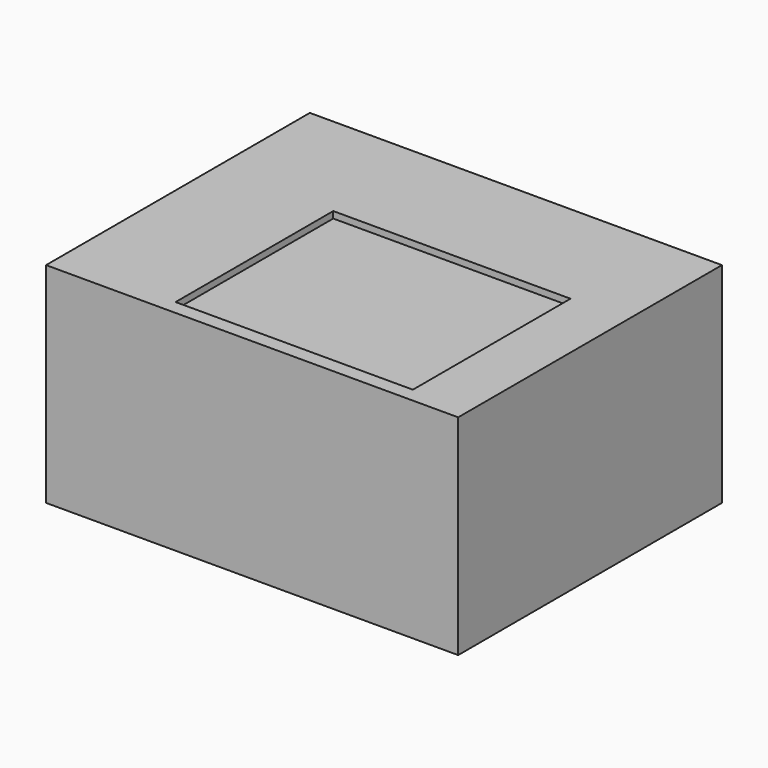
from build123d import *

# Parameters (mm, degrees)
F0_W      = 125
F0_H      = 100
F1_DEPTH  = 63.5
F3_D      = 3.7973
F3_DEPTH  = 10
F3_TIP    = 1.1408240143
F2_W      = 30.6147579104
F2_H      = 25.0281281769
F4_DEPTH  = 3
F5_R      = 2
F6_W      = 71.9727240503
F6_H      = 59.7681310028
F7_DEPTH  = 2
F9_DEPTH  = 5
F10_DEPTH = 5


with BuildPart() as f1:
    # F0 (on Top) → F1 (new body)
    with BuildSketch(Plane.XY):
        Rectangle(F0_W, F0_H)
    extrude(amount=F1_DEPTH)

    # F3
    with Locations(Plane(origin=(0, 50, 0), x_dir=(-1, 0, 0), z_dir=(0, 1, 0))):
        with Locations((-56.5, 32.5), (56.5, 57.5), (56.5, 6)):
            Hole(F3_D / 2, depth=F3_DEPTH)
            with Locations((0, 0, -(F3_DEPTH + F3_TIP / 2))):  # 118° drill point
                Cone(0, F3_D / 2, F3_TIP, mode=Mode.SUBTRACT)

    # F2 (on face) → F4 (join)
    with BuildSketch(Plane(origin=(0, 50, 0), x_dir=(-1, 0, 0), z_dir=(0, 1, 0))):
        with Locations((-36.4209739491, 27.976481244)):
            Rectangle(F2_W, F2_H)
    extrude(amount=F4_DEPTH)

    # F5
    f5_edges = [f1.edges().sort_by_distance(p)[0] for p in [
        (36.420974, 53, 40.490545),
        (51.728353, 53, 27.976481),
        (36.420974, 53, 15.462417),
        (21.113595, 53, 27.976481),
        (21.113595, 51.5, 40.490545),
        (21.113595, 51.5, 15.462417),
        (51.728353, 51.5, 40.490545),
        (51.728353, 51.5, 15.462417),
    ]]
    fillet(f5_edges, radius=F5_R)

    # F6 (on face) → F7 (cut)
    with BuildSketch(Plane.XY.offset(63.5)):
        with Locations((9.2756617814, -15.7460393384)):
            Rectangle(F6_W, F6_H)
    extrude(amount=-F7_DEPTH, mode=Mode.SUBTRACT)

    # F8 (on face) → F9 (cut)
    with BuildSketch(Plane(origin=(0, 50, 0), x_dir=(-1, 0, 0), z_dir=(0, 1, 0))):
        with BuildLine():
            Line((-7.6500625238, 55.638247937), (-9.9858876914, 55.638247937))
            ThreePointArc((-9.9858876914, 55.638247937), (-11.0465478632, 55.1989081087), (-11.4858876914, 54.138247937))
            Line((-11.4858876914, 54.138247937), (-11.4858876914, 7.0822326578))
            ThreePointArc((-11.4858876914, 7.0822326578), (-11.0465478632, 6.021572486), (-9.9858876914, 5.5822326578))
            Line((-9.9858876914, 5.5822326578), (-7.6500625238, 5.5822326578))
            ThreePointArc((-7.6500625238, 5.5822326578), (-6.589402352, 6.021572486), (-6.1500625238, 7.0822326578))
            Line((-6.1500625238, 7.0822326578), (-6.1500625238, 54.138247937))
            ThreePointArc((-6.1500625238, 54.138247937), (-6.589402352, 55.1989081087), (-7.6500625238, 55.638247937))
        make_face()
        with BuildLine():
            Line((2.3499374762, 55.638247937), (0.0141123086, 55.638247937))
            ThreePointArc((0.0141123086, 55.638247937), (-1.0465478632, 55.1989081087), (-1.4858876914, 54.138247937))
            Line((-1.4858876914, 54.138247937), (-1.4858876914, 7.0822326578))
            ThreePointArc((-1.4858876914, 7.0822326578), (-1.0465478632, 6.021572486), (0.0141123086, 5.5822326578))
            Line((0.0141123086, 5.5822326578), (2.3499374762, 5.5822326578))
            ThreePointArc((2.3499374762, 5.5822326578), (3.410597648, 6.021572486), (3.8499374762, 7.0822326578))
            Line((3.8499374762, 7.0822326578), (3.8499374762, 54.138247937))
            ThreePointArc((3.8499374762, 54.138247937), (3.410597648, 55.1989081087), (2.3499374762, 55.638247937))
        make_face()
        with BuildLine():
            Line((12.3499374762, 55.638247937), (10.0141123086, 55.638247937))
            ThreePointArc((10.0141123086, 55.638247937), (8.9534521368, 55.1989081087), (8.5141123086, 54.138247937))
            Line((8.5141123086, 54.138247937), (8.5141123086, 7.0822326578))
            ThreePointArc((8.5141123086, 7.0822326578), (8.9534521368, 6.021572486), (10.0141123086, 5.5822326578))
            Line((10.0141123086, 5.5822326578), (12.3499374762, 5.5822326578))
            ThreePointArc((12.3499374762, 5.5822326578), (13.410597648, 6.021572486), (13.8499374762, 7.0822326578))
            Line((13.8499374762, 7.0822326578), (13.8499374762, 54.138247937))
            ThreePointArc((13.8499374762, 54.138247937), (13.410597648, 55.1989081087), (12.3499374762, 55.638247937))
        make_face()
        with BuildLine():
            Line((22.3499374762, 55.638247937), (20.0141123086, 55.638247937))
            ThreePointArc((20.0141123086, 55.638247937), (18.9534521368, 55.1989081087), (18.5141123086, 54.138247937))
            Line((18.5141123086, 54.138247937), (18.5141123086, 7.0822326578))
            ThreePointArc((18.5141123086, 7.0822326578), (18.9534521368, 6.021572486), (20.0141123086, 5.5822326578))
            Line((20.0141123086, 5.5822326578), (22.3499374762, 5.5822326578))
            ThreePointArc((22.3499374762, 5.5822326578), (23.410597648, 6.021572486), (23.8499374762, 7.0822326578))
            Line((23.8499374762, 7.0822326578), (23.8499374762, 54.138247937))
            ThreePointArc((23.8499374762, 54.138247937), (23.410597648, 55.1989081087), (22.3499374762, 55.638247937))
        make_face()
        with BuildLine():
            Line((32.3499374762, 55.638247937), (30.0141123086, 55.638247937))
            ThreePointArc((30.0141123086, 55.638247937), (28.9534521368, 55.1989081087), (28.5141123086, 54.138247937))
            Line((28.5141123086, 54.138247937), (28.5141123086, 7.0822326578))
            ThreePointArc((28.5141123086, 7.0822326578), (28.9534521368, 6.021572486), (30.0141123086, 5.5822326578))
            Line((30.0141123086, 5.5822326578), (32.3499374762, 5.5822326578))
            ThreePointArc((32.3499374762, 5.5822326578), (33.410597648, 6.021572486), (33.8499374762, 7.0822326578))
            Line((33.8499374762, 7.0822326578), (33.8499374762, 54.138247937))
            ThreePointArc((33.8499374762, 54.138247937), (33.410597648, 55.1989081087), (32.3499374762, 55.638247937))
        make_face()
        with BuildLine():
            Line((42.3499374762, 55.638247937), (40.0141123086, 55.638247937))
            ThreePointArc((40.0141123086, 55.638247937), (38.9534521368, 55.1989081087), (38.5141123086, 54.138247937))
            Line((38.5141123086, 54.138247937), (38.5141123086, 7.0822326578))
            ThreePointArc((38.5141123086, 7.0822326578), (38.9534521368, 6.021572486), (40.0141123086, 5.5822326578))
            Line((40.0141123086, 5.5822326578), (42.3499374762, 5.5822326578))
            ThreePointArc((42.3499374762, 5.5822326578), (43.410597648, 6.021572486), (43.8499374762, 7.0822326578))
            Line((43.8499374762, 7.0822326578), (43.8499374762, 54.138247937))
            ThreePointArc((43.8499374762, 54.138247937), (43.410597648, 55.1989081087), (42.3499374762, 55.638247937))
        make_face()
    extrude(amount=-F9_DEPTH, mode=Mode.SUBTRACT)

    # F10 (cut): a face of the model
    f10_faces = [f1.faces().sort_by_distance(p)[0] for p in [
        (36.4209739491, 53, 27.976481244),
    ]]
    extrude(f10_faces, amount=-F10_DEPTH, mode=Mode.SUBTRACT)


solid = f1.part
